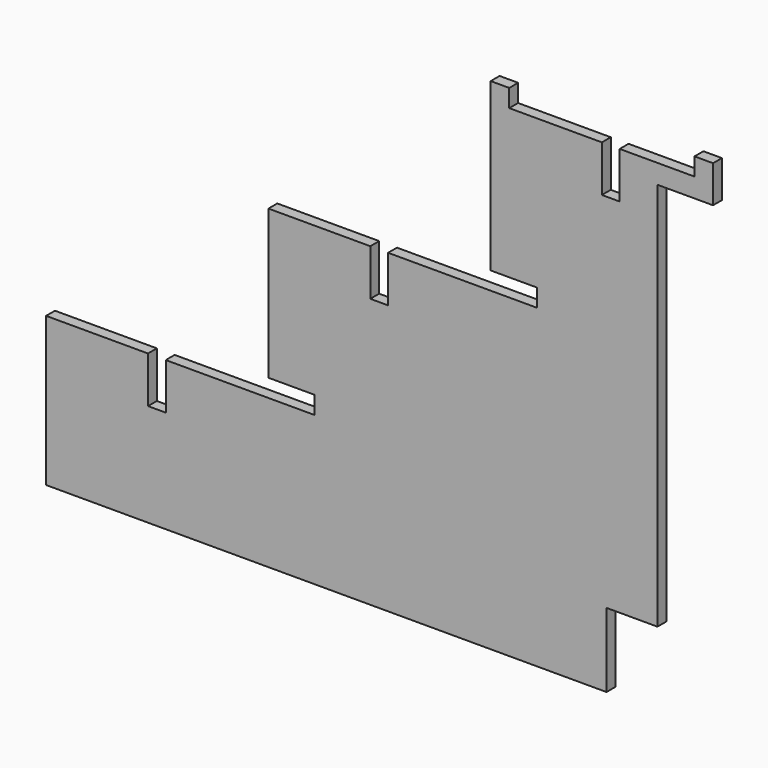
from build123d import *

# Parameters (mm, degrees)
F1_DEPTH = 6


with BuildPart() as f1:
    # F0 (on Front) → F1 (new body, symmetric)
    with BuildSketch(Plane.XZ):
        Polygon((-395.130562, -79.500396), (-395.130562, -240.300396), (209.869438, -240.300396), (209.869438, -160.300396), (264.869438, -160.300396), (264.869438, 259.699604), (324.869438, 259.699604), (324.869438, 299.699604), (304.869438, 299.699604), (304.869438, 280.499604), (224.069438, 280.499604), (224.069438, 230.499604), (204.869438, 230.499604), (204.869438, 280.499604), (104.869438, 280.499604), (104.869438, 299.699604), (84.869438, 299.699604), (84.869438, 119.699604), (134.869438, 119.699604), (134.869438, 100.499604), (-25.930562, 100.499604), (-25.930562, 50.499604), (-45.130562, 50.499604), (-45.130562, 100.499604), (-155.130562, 100.499604), (-155.130562, -60.300396), (-105.130562, -60.300396), (-105.130562, -79.500396), (-172.839355, -79.500396), (-265.930562, -79.500396), (-265.930562, -129.500396), (-285.130562, -129.500396), (-285.130562, -79.500396), align=None)
    extrude(amount=F1_DEPTH, both=True)


solid = f1.part
